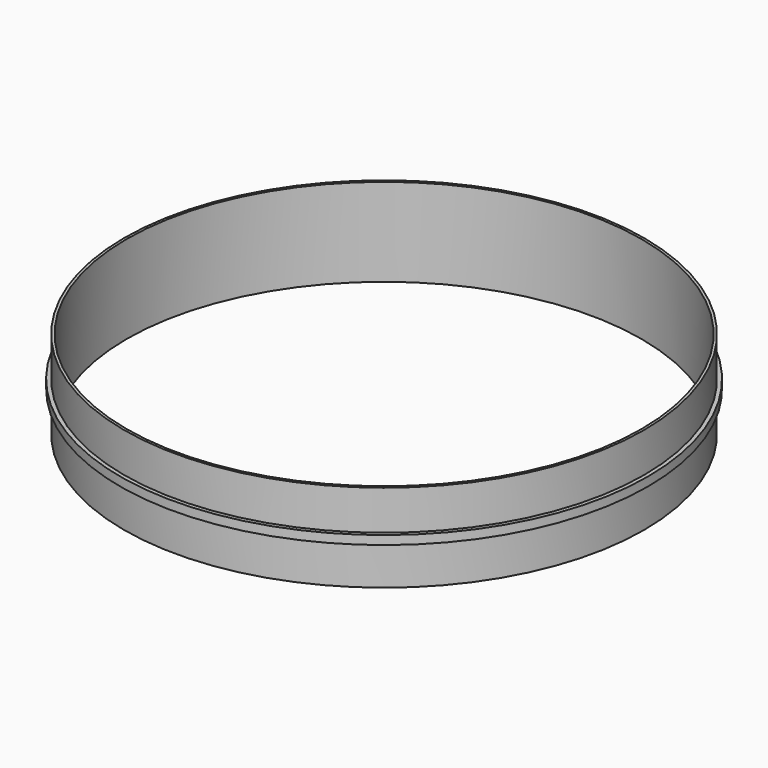
from build123d import *

# Parameters (mm, degrees)
F0_R     = 59.1
F0_R_2   = 58.5
F1_DEPTH = 20
F2_START = 9
F0_R_3   = 60
F2_DEPTH = 2


with BuildPart() as f1:
    # F0 (on Top) → F1 (new body)
    with BuildSketch(Plane.XY):
        Circle(F0_R)
        Circle(F0_R_2, mode=Mode.SUBTRACT)
    extrude(amount=F1_DEPTH)

    # F0 (on Top) → F2 (join)
    with BuildSketch(Plane.XY.offset(F2_START)):
        Circle(F0_R_3)
        Circle(F0_R, mode=Mode.SUBTRACT)
    extrude(amount=F2_DEPTH)


solid = f1.part
